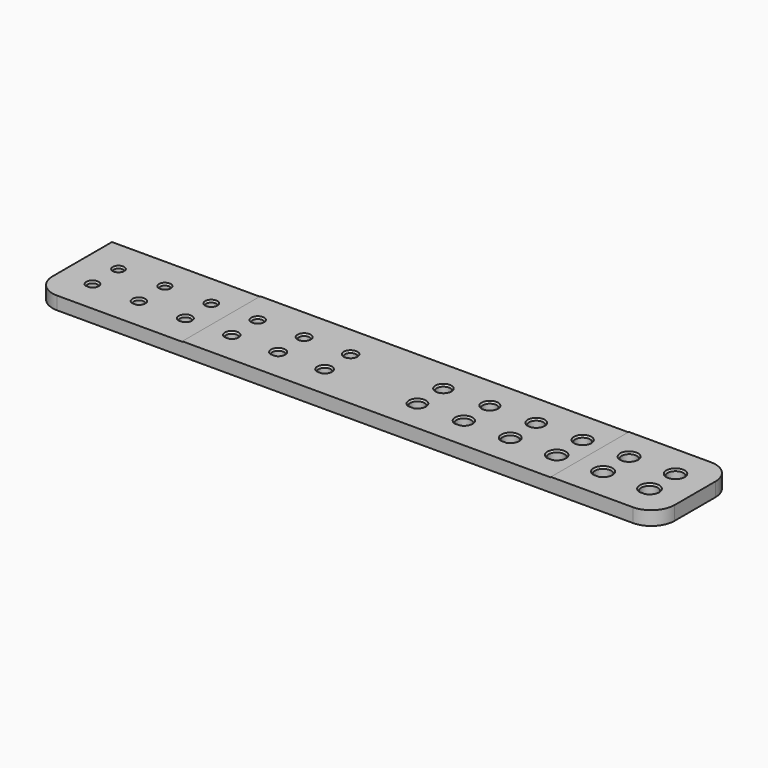
from build123d import *

# Parameters (mm, degrees)
F0_W       = 134
F0_H       = 21
F0_R       = 0.95
F0_R_2     = 1
F0_R_3     = 1.05
F0_R_4     = 1.1
F0_R_5     = 1.15
F0_R_6     = 1.2
F0_R_7     = 1.45
F0_R_8     = 1.5
F0_R_9     = 1.55
F0_R_10    = 1.6
F0_R_11    = 1.65
F0_R_12    = 1.7
F1_DEPTH   = 3
F2_W       = 115.3435505795
F2_H       = 31.146372728
F3_DEPTH   = 0.1
F4_W       = 37.3963937163
F4_H       = 31.433518976
F5_DEPTH   = 0.1
F6_R       = 5
F7_SIZE2   = 0.4
F7_SIZE    = 0.2800830153
F7_2_SIZE2 = 0.4
F7_2_SIZE  = 0.2800830153
F7_3_SIZE2 = 0.4
F7_3_SIZE  = 0.2800830153
F8_SIZE2   = 0.4
F8_SIZE    = 0.2800830153


with BuildPart() as f1:
    # F0 (on Top) → F1 (new body)
    with BuildSketch(Plane.XY):
        with Locations((0, -3.5)):
            Rectangle(F0_W, F0_H)
        with BuildLine():
            ThreePointArc((-60.4472135955, -7.95), (-60.5625503198, -6.1134126452), (-58.95, -7))
            ThreePointArc((-58.95, -7), (-59.1134126452, -7.5625503198), (-59.5527864045, -7.95))
            ThreePointArc((-59.5527864045, -7.95), (-60, -8.05), (-60.4472135955, -7.95))
        make_face(mode=Mode.SUBTRACT)
        with BuildLine():
            ThreePointArc((-50.4582575695, -8), (-50.5941029682, -6.0742345528), (-48.9, -7))
            ThreePointArc((-48.9, -7), (-49.0742345528, -7.5941029682), (-49.5417424305, -8))
            ThreePointArc((-49.5417424305, -8), (-50, -8.1), (-50.4582575695, -8))
        make_face(mode=Mode.SUBTRACT)
        with BuildLine():
            ThreePointArc((-40.469041576, -8.05), (-40.6257404365, -6.0351430644), (-38.85, -7))
            ThreePointArc((-38.85, -7), (-39.0351430644, -7.6257404365), (-39.530958424, -8.05))
            ThreePointArc((-39.530958424, -8.05), (-40, -8.15), (-40.469041576, -8.05))
        make_face(mode=Mode.SUBTRACT)
        with BuildLine():
            ThreePointArc((-30.4795831523, -8.1), (-30.6574573055, -5.996132533), (-28.8, -7))
            ThreePointArc((-28.8, -7), (-28.996132533, -7.6574573055), (-29.5204168477, -8.1))
            ThreePointArc((-29.5204168477, -8.1), (-30, -8.2), (-30.4795831523, -8.1))
        make_face(mode=Mode.SUBTRACT)
        with BuildLine():
            ThreePointArc((-20.4898979486, -8.15), (-20.6892487085, -5.9571979009), (-18.75, -7))
            ThreePointArc((-18.75, -7), (-18.9571979009, -7.6892487085), (-19.5101020514, -8.15))
            ThreePointArc((-19.5101020514, -8.15), (-20, -8.25), (-20.4898979486, -8.15))
        make_face(mode=Mode.SUBTRACT)
        with BuildLine():
            ThreePointArc((-10.5, -8.2), (-10.7211102551, -5.9183346174), (-8.7, -7))
            ThreePointArc((-8.7, -7), (-8.9183346174, -7.7211102551), (-9.5, -8.2))
            ThreePointArc((-9.5, -8.2), (-10, -8.3), (-10.5, -8.2))
        make_face(mode=Mode.SUBTRACT)
        with BuildLine():
            ThreePointArc((9.4522774425, -8.45), (9.1186572642, -5.7249568705), (11.55, -7))
            ThreePointArc((11.55, -7), (11.2750431295, -7.8813427358), (10.5477225575, -8.45))
            ThreePointArc((10.5477225575, -8.45), (10, -8.55), (9.4522774425, -8.45))
        make_face(mode=Mode.SUBTRACT)
        with BuildLine():
            ThreePointArc((19.4432235637, -8.5), (19.0864471274, -5.6864471274), (21.6, -7))
            ThreePointArc((21.6, -7), (21.3135528726, -7.9135528726), (20.5567764363, -8.5))
            ThreePointArc((20.5567764363, -8.5), (20, -8.6), (19.4432235637, -8.5))
        make_face(mode=Mode.SUBTRACT)
        with BuildLine():
            ThreePointArc((29.4343145751, -8.55), (29.0541884308, -5.6479865106), (31.65, -7))
            ThreePointArc((31.65, -7), (31.3520134894, -7.9458115692), (30.5656854249, -8.55))
            ThreePointArc((30.5656854249, -8.55), (30, -8.65), (29.4343145751, -8.55))
        make_face(mode=Mode.SUBTRACT)
        with BuildLine():
            ThreePointArc((39.4255437353, -8.6), (39.021883353, -5.6095727905), (41.7, -7))
            ThreePointArc((41.7, -7), (41.3904272095, -7.978116647), (40.5744562647, -8.6))
            ThreePointArc((40.5744562647, -8.6), (40, -8.7), (39.4255437353, -8.6))
        make_face(mode=Mode.SUBTRACT)
        with BuildLine():
            ThreePointArc((49.4169048105, -8.65), (48.9895339149, -5.5712039016), (51.75, -7))
            ThreePointArc((51.75, -7), (51.4287960984, -8.0104660851), (50.5830951895, -8.65))
            ThreePointArc((50.5830951895, -8.65), (50, -8.75), (49.4169048105, -8.65))
        make_face(mode=Mode.SUBTRACT)
        with BuildLine():
            ThreePointArc((59.4083920217, -8.7), (58.9571419946, -5.5328779258), (61.8, -7))
            ThreePointArc((61.8, -7), (61.4671220742, -8.0428580054), (60.5916079783, -8.7))
            ThreePointArc((60.5916079783, -8.7), (60, -8.8), (59.4083920217, -8.7))
        make_face(mode=Mode.SUBTRACT)
        with Locations((-60, 0)):
            Circle(F0_R, mode=Mode.SUBTRACT)
        with Locations((-50, 0)):
            Circle(F0_R_2, mode=Mode.SUBTRACT)
        with Locations((-40, 0)):
            Circle(F0_R_3, mode=Mode.SUBTRACT)
        with Locations((-30, 0)):
            Circle(F0_R_4, mode=Mode.SUBTRACT)
        with Locations((-20, 0)):
            Circle(F0_R_5, mode=Mode.SUBTRACT)
        with Locations((-10, 0)):
            Circle(F0_R_6, mode=Mode.SUBTRACT)
        with Locations((10, 0)):
            Circle(F0_R_7, mode=Mode.SUBTRACT)
        with Locations((20, 0)):
            Circle(F0_R_8, mode=Mode.SUBTRACT)
        with Locations((30, 0)):
            Circle(F0_R_9, mode=Mode.SUBTRACT)
        with Locations((40, 0)):
            Circle(F0_R_10, mode=Mode.SUBTRACT)
        with Locations((50, 0)):
            Circle(F0_R_11, mode=Mode.SUBTRACT)
        with Locations((60, 0)):
            Circle(F0_R_12, mode=Mode.SUBTRACT)
        with BuildLine():
            Line((60.5916079783, -8.7), (59.4083920217, -8.7))
            ThreePointArc((59.4083920217, -8.7), (60, -8.8), (60.5916079783, -8.7))
        make_face()
        with BuildLine():
            Line((50.5830951895, -8.65), (49.4169048105, -8.65))
            ThreePointArc((49.4169048105, -8.65), (50, -8.75), (50.5830951895, -8.65))
        make_face()
        with BuildLine():
            Line((40.5744562647, -8.6), (39.4255437353, -8.6))
            ThreePointArc((39.4255437353, -8.6), (40, -8.7), (40.5744562647, -8.6))
        make_face()
        with BuildLine():
            Line((30.5656854249, -8.55), (29.4343145751, -8.55))
            ThreePointArc((29.4343145751, -8.55), (30, -8.65), (30.5656854249, -8.55))
        make_face()
        with BuildLine():
            Line((20.5567764363, -8.5), (19.4432235637, -8.5))
            ThreePointArc((19.4432235637, -8.5), (20, -8.6), (20.5567764363, -8.5))
        make_face()
        with BuildLine():
            Line((10.5477225575, -8.45), (9.4522774425, -8.45))
            ThreePointArc((9.4522774425, -8.45), (10, -8.55), (10.5477225575, -8.45))
        make_face()
        with BuildLine():
            Line((-9.5, -8.2), (-10.5, -8.2))
            ThreePointArc((-10.5, -8.2), (-10, -8.3), (-9.5, -8.2))
        make_face()
        with BuildLine():
            Line((-19.5101020514, -8.15), (-20.4898979486, -8.15))
            ThreePointArc((-20.4898979486, -8.15), (-20, -8.25), (-19.5101020514, -8.15))
        make_face()
        with BuildLine():
            Line((-29.5204168477, -8.1), (-30.4795831523, -8.1))
            ThreePointArc((-30.4795831523, -8.1), (-30, -8.2), (-29.5204168477, -8.1))
        make_face()
        with BuildLine():
            Line((-39.530958424, -8.05), (-40.469041576, -8.05))
            ThreePointArc((-40.469041576, -8.05), (-40, -8.15), (-39.530958424, -8.05))
        make_face()
        with BuildLine():
            Line((-49.5417424305, -8), (-50.4582575695, -8))
            ThreePointArc((-50.4582575695, -8), (-50, -8.1), (-49.5417424305, -8))
        make_face()
        with BuildLine():
            Line((-59.5527864045, -7.95), (-60.4472135955, -7.95))
            ThreePointArc((-60.4472135955, -7.95), (-60, -8.05), (-59.5527864045, -7.95))
        make_face()
    extrude(amount=F1_DEPTH)

    # F2 (on face) → F3 (cut)
    with BuildSketch(Plane.XY.offset(3)):
        with Locations((-13.3217752897, -4.8421197273)):
            Rectangle(F2_W, F2_H)
    extrude(amount=-F3_DEPTH, mode=Mode.SUBTRACT)

    # F4 (on face) → F5 (cut)
    with BuildSketch(Plane.XY.offset(2.9)):
        with Locations((-53.753297776, -4.5845154673)):
            Rectangle(F4_W, F4_H)
    extrude(amount=-F5_DEPTH, mode=Mode.SUBTRACT)

    # F6
    f6_edges = [f1.edges().sort_by_distance(p)[0] for p in [
        (-67, -14, 1.4),
        (67, -14, 1.5),
        (67, 7, 1.5),
    ]]
    fillet(f6_edges, radius=F6_R)

    # F7
    f7_edges = [f1.edges().sort_by_distance(p)[0] for p in [
        (-31.1, 0, 2.9),
        (-30, -8.1, 2.9),
        (-30, -5.8, 2.9),
        (-21.15, 0, 2.9),
        (-20, -8.15, 2.9),
        (-20, -5.75, 2.9),
        (-11.2, 0, 2.9),
        (-10, -8.2, 2.9),
        (-10, -5.7, 2.9),
        (10, -8.45, 2.9),
        (10, -5.45, 2.9),
        (8.55, 0, 2.9),
        (20, -8.5, 2.9),
        (20, -5.4, 2.9),
        (18.5, 0, 2.9),
        (30, -8.55, 2.9),
        (30, -5.35, 2.9),
        (28.45, 0, 2.9),
        (40, -8.6, 2.9),
        (40, -5.3, 2.9),
        (38.4, 0, 2.9),
    ]]
    f7_side = f1.faces().sort_by_distance((4.226732, -3.48776, 2.9))[0]
    chamfer(f7_edges, length=F7_SIZE, length2=F7_SIZE2, reference=f7_side)

    # F7#2
    f7_2_edges = [f1.edges().sort_by_distance(p)[0] for p in [
        (-60.95, 0, 2.8),
        (-51, 0, 2.8),
        (-60, -5.95, 2.8),
        (-60, -7.95, 2.8),
        (-50, -8, 2.8),
        (-50, -5.9, 2.8),
        (-41.05, 0, 2.8),
        (-40, -8.05, 2.8),
        (-40, -5.85, 2.8),
    ]]
    f7_2_side = f1.faces().sort_by_distance((-50.957311, -3.412488, 2.8))[0]
    chamfer(f7_2_edges, length=F7_2_SIZE, length2=F7_2_SIZE2, reference=f7_2_side)

    # F7#3
    f7_3_edges = [f1.edges().sort_by_distance(p)[0] for p in [
        (50, -8.65, 3),
        (50, -5.25, 3),
        (48.35, 0, 3),
        (60, -8.7, 3),
        (60, -5.2, 3),
        (58.3, 0, 3),
    ]]
    f7_3_side = f1.faces().sort_by_distance((55.465041, -3.48418, 3))[0]
    chamfer(f7_3_edges, length=F7_3_SIZE, length2=F7_3_SIZE2, reference=f7_3_side)

    # F8
    f8_edges = [f1.edges().sort_by_distance(p)[0] for p in [
        (58.3, 0, 0),
        (60, -8.7, 0),
        (60, -5.2, 0),
        (48.35, 0, 0),
        (50, -8.65, 0),
        (50, -5.25, 0),
        (40, -8.6, 0),
        (40, -5.3, 0),
        (38.4, 0, 0),
        (30, -8.55, 0),
        (30, -5.35, 0),
        (28.45, 0, 0),
        (20, -8.5, 0),
        (20, -5.4, 0),
        (18.5, 0, 0),
        (10, -8.45, 0),
        (10, -5.45, 0),
        (8.55, 0, 0),
        (-10, -8.2, 0),
        (-10, -5.7, 0),
        (-11.2, 0, 0),
        (-20, -8.15, 0),
        (-20, -5.75, 0),
        (-21.15, 0, 0),
        (-30, -8.1, 0),
        (-30, -5.8, 0),
        (-31.1, 0, 0),
        (-40, -8.05, 0),
        (-40, -5.85, 0),
        (-41.05, 0, 0),
        (-51, 0, 0),
        (-50, -8, 0),
        (-50, -5.9, 0),
        (-60, -7.95, 0),
        (-60, -5.95, 0),
        (-60.95, 0, 0),
    ]]
    f8_side = f1.faces().sort_by_distance((-0.930682, -3.468872, 0))[0]
    chamfer(f8_edges, length=F8_SIZE, length2=F8_SIZE2, reference=f8_side)


solid = f1.part
